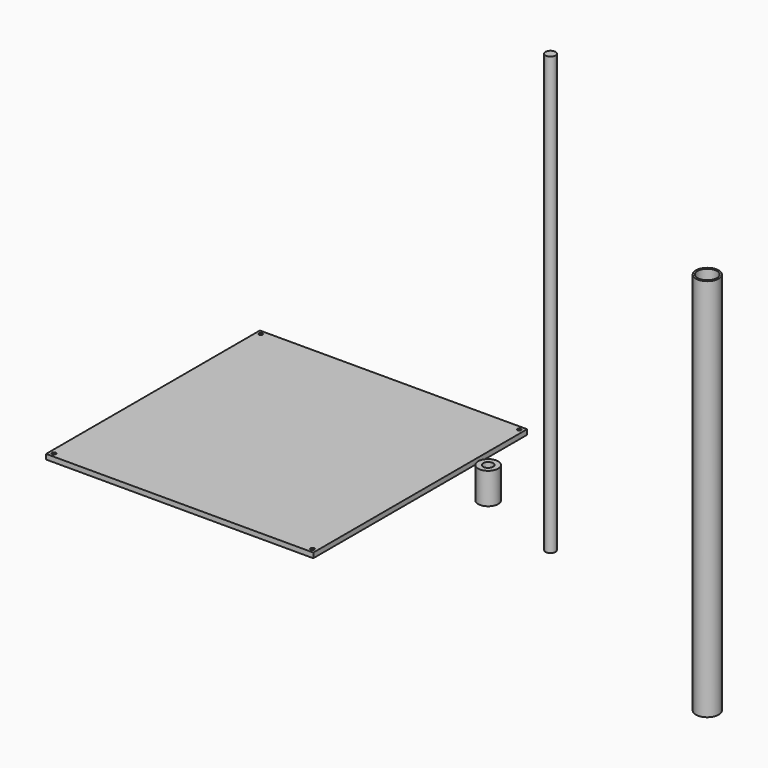
from build123d import *

# Parameters (mm, degrees)
F0_R     = 8
F0_R_2   = 4
F1_DEPTH = 25
F2_DEPTH = 350
F0_W     = 214
F0_H     = 214
F0_R_3   = 1.5
F3_DEPTH = 4
F0_R_4   = 9.15
F0_R_5   = 7.75
F4_DEPTH = 307.4


with BuildPart() as f1:
    # F0 (on Top) → F1 (new body)
    with BuildSketch(Plane.XY):
        with Locations((-45.57091, 33.630934)):
            Circle(F0_R)
        with Locations((-45.57091, 33.630934)):
            Circle(F0_R_2, mode=Mode.SUBTRACT)
    extrude(amount=F1_DEPTH)


with BuildPart() as f2:
    # F0 (on Top) → F2 (new body)
    with BuildSketch(Plane.XY):
        with Locations((26.940951, 5.416973)):
            Circle(F0_R_2)
    extrude(amount=F2_DEPTH)


with BuildPart() as f3:
    # F0 (on Top) → F3 (new body)
    with BuildSketch(Plane.XY):
        with Locations((-189.007127, 11.145905)):
            Rectangle(F0_W, F0_H)
        with Locations((-292.507127, -92.354095)):
            Circle(F0_R_3, mode=Mode.SUBTRACT)
        with Locations((-85.507127, -92.354095)):
            Circle(F0_R_3, mode=Mode.SUBTRACT)
        with Locations((-292.507127, 114.645905)):
            Circle(F0_R_3, mode=Mode.SUBTRACT)
        with Locations((-85.507127, 114.645905)):
            Circle(F0_R_3, mode=Mode.SUBTRACT)
    extrude(amount=F3_DEPTH)


with BuildPart() as f4:
    # F0 (on Top) → F4 (new body)
    with BuildSketch(Plane.XY):
        with Locations((239.212424, -102.954209)):
            Circle(F0_R_4)
        with Locations((239.212424, -102.954209)):
            Circle(F0_R_5, mode=Mode.SUBTRACT)
    extrude(amount=F4_DEPTH)


solid = Compound([f1.part, f2.part, f3.part, f4.part])
